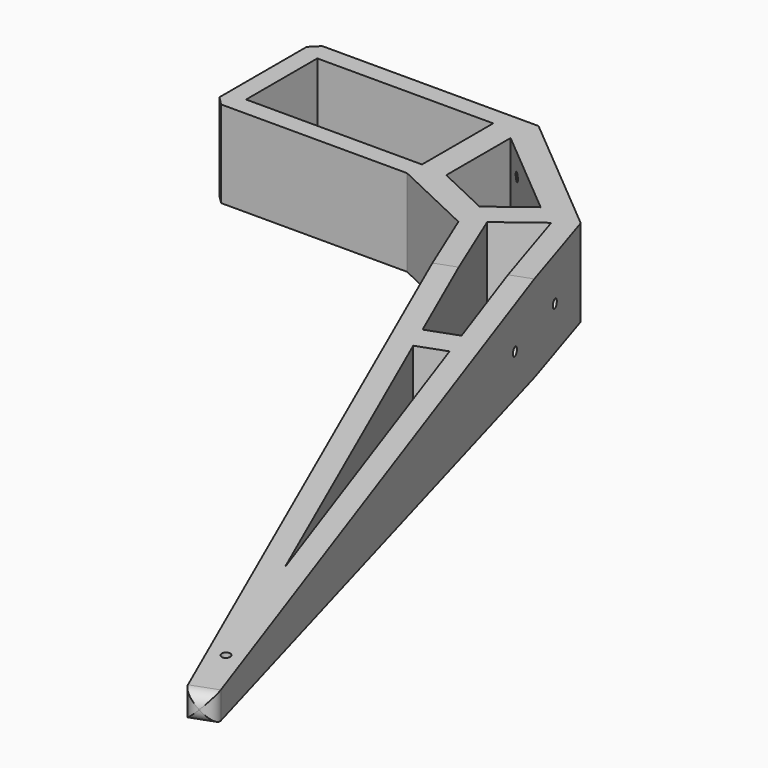
from build123d import *

# Parameters (mm, degrees)
F0_W           = 40.5
F0_H           = 20.5
F1_DEPTH       = 10
F2_SIZE        = 2
F3_R           = 2.9
F4_DEPTH       = 3
F7_DEPTH       = 126.422950013
F7_DEPTH_BACK  = 72.2858581577
F8_R           = 3
F9_R           = 1
F10_DEPTH      = 4
F12_DEPTH      = 3.596245468
F12_DEPTH_BACK = 3.8025450309
F13_R          = 1
F14_DEPTH      = 5.851831237
F15_R          = 1
F16_DEPTH      = 5
F17_R          = 1
F18_DEPTH      = 10.001
F18_DEPTH_BACK = 10.001


with BuildPart() as f1:
    # F0 (on Top) → F1 (new body, symmetric)
    with BuildSketch(Plane.XY):
        Polygon((7, 24.8), (-44.8, 24.8), (-44.8, -4.3), (0, -4.3), (19.0412067101, -13.3135236694), (86.5428958395, -176.8274940062), (92.1810515642, -174.7753731462), (36.5554890963, 0), align=None)
        with Locations((-20.25, 10.25)):
            Rectangle(F0_W, F0_H, mode=Mode.SUBTRACT)
        Polygon((6, -0.5019311232), (6, 18.0000764784), (27.0662221858, 0.3234172121), (18.3128683715, -6.3304656376), align=None, mode=Mode.SUBTRACT)
        Polygon((23.1584805053, -10.1837681409), (32.3305180335, -3.2116218642), (72.8933752329, -130.660014085), align=None, mode=Mode.SUBTRACT)
    extrude(amount=F1_DEPTH, both=True)

    # F2
    f2_edges = [f1.edges().sort_by_distance(p)[0] for p in [
        (-44.8, 24.8, 0),
        (-44.8, -4.3, 0),
    ]]
    chamfer(f2_edges, length=F2_SIZE)

    # F3 (on face) → F4 (join)
    with BuildSketch(Plane(origin=(0, 24.8, 0), x_dir=(-1, 0, 0), z_dir=(0, 1, 0))):
        with Locations((10.25, 0)):
            Circle(F3_R)
    extrude(amount=F4_DEPTH)

    # F6 (on mid) → F7 (cut, two sides)
    with BuildSketch(Plane(origin=(22.4071169072, 8.1555235899, 0), x_dir=(-0.3420201433, 0.9396926208, 0), z_dir=(0.9396926208, 0.3420201433, 0))) as f7_sk:
        Polygon((-35.7629049085, -10), (-195.7629049085, -3), (-195.7629049085, -10), align=None)
        Polygon((-35.7629049085, 10), (-195.7629049085, 10), (-195.7629049085, 3), align=None)
    extrude(amount=-F7_DEPTH, mode=Mode.SUBTRACT)
    extrude(f7_sk.sketch, amount=F7_DEPTH_BACK, mode=Mode.SUBTRACT)

    # F8
    f8_edges = [f1.edges().sort_by_distance(p)[0] for p in [
        (92.181052, -174.775373, 0),
        (89.361974, -175.801434, 3),
        (86.542896, -176.827494, 0),
        (89.361974, -175.801434, -3),
    ]]
    fillet(f8_edges, radius=F8_R)

    # F9 (on face) → F10 (cut)
    with BuildSketch(Plane(origin=(0, 24.8, 0), x_dir=(-1, 0, 0), z_dir=(0, 1, 0))):
        with Locations((15.25, 5)):
            Circle(F9_R)
        with Locations((15.25, -5)):
            Circle(F9_R)
        with Locations((5.25, -5)):
            Circle(F9_R)
        with Locations((5.25, 5)):
            Circle(F9_R)
    extrude(amount=-F10_DEPTH, mode=Mode.SUBTRACT)

    # F11 (on mid) → F12 (join, two sides)
    with BuildSketch(Plane(origin=(22.4071169072, 8.1555235899, 0), x_dir=(-0.3420201433, 0.9396926208, 0), z_dir=(0.9396926208, 0.3420201433, 0))) as f12_sk:
        Polygon((-59.0230961969, -8.9823666311), (-59.0230961969, 8.9823666311), (-65.0230961969, 8.7198666311), (-65.0230961969, -8.7198666311), align=None)
    extrude(amount=F12_DEPTH)
    extrude(f12_sk.sketch, amount=-F12_DEPTH_BACK)

    # F13 (on face) → F14 (cut, through all)
    with BuildSketch(Plane(origin=(15.1038475155, 18.0000645386, 0), x_dir=(-0.7660444431, 0.6427876097, 0), z_dir=(0.6427876097, 0.7660444431, 0))):
        with Locations((1.2878461653, 5)):
            Circle(F13_R)
        with Locations((1.2878461653, -5)):
            Circle(F13_R)
        with Locations((-18.7121538347, -5)):
            Circle(F13_R)
        with Locations((-18.7121538347, 5)):
            Circle(F13_R)
    extrude(amount=-F14_DEPTH, mode=Mode.SUBTRACT)

    # F15 (on face) → F16 (cut, through all)
    with BuildSketch(Plane(origin=(33.19318295, 10.5643572001, 0), x_dir=(-0.3032789919, 0.9529018066, 0), z_dir=(0.9529018066, 0.3032789919, 0))):
        with Locations((-24.0865118803, 0)):
            Circle(F15_R)
        with Locations((-44.0865118803, 0)):
            Circle(F15_R)
    extrude(amount=-F16_DEPTH, mode=Mode.SUBTRACT)

    # F17 (on Top) → F18 (cut, two sides)
    with BuildSketch(Plane.XY) as f18_sk:
        with Locations((84.231671552, -161.7060442644)):
            Circle(F17_R)
    extrude(amount=-F18_DEPTH, mode=Mode.SUBTRACT)
    extrude(f18_sk.sketch, amount=F18_DEPTH_BACK, mode=Mode.SUBTRACT)


solid = f1.part
